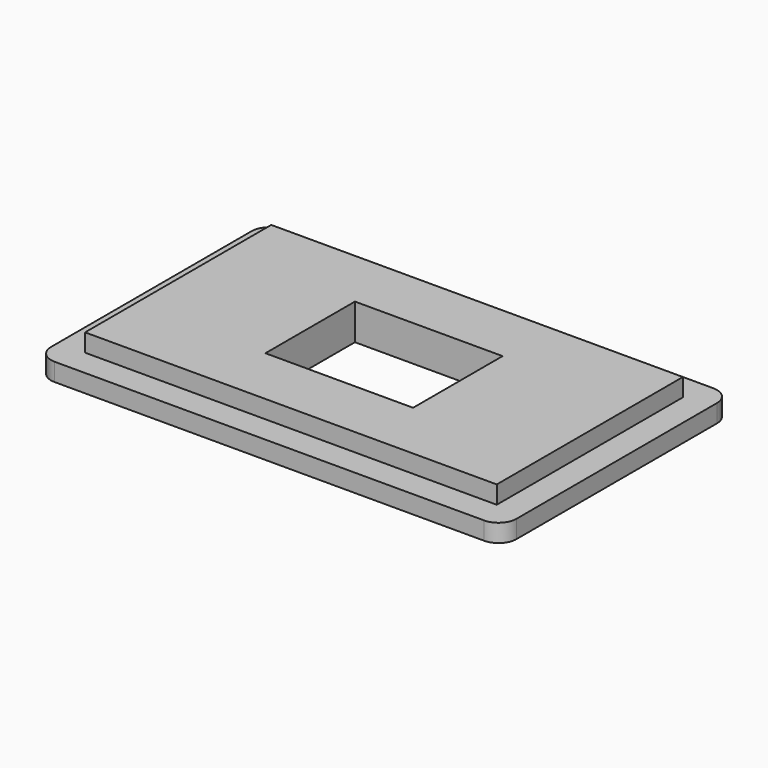
from build123d import *

# Parameters (mm, degrees)
F0_W     = 46
F0_H     = 26
F0_W_2   = 16.5
F0_H_2   = 12.5
F1_DEPTH = 4
F2_DEPTH = 2


with BuildPart() as f1:
    # F0 (on Top) → F1 (new body)
    with BuildSketch(Plane.XY):
        Rectangle(F0_W, F0_H)
        Rectangle(F0_W_2, F0_H_2, mode=Mode.SUBTRACT)
    extrude(amount=F1_DEPTH)

    # F0 (on Top) → F2 (join)
    with BuildSketch(Plane.XY):
        with BuildLine():
            Line((24, 16), (-24, 16))
            ThreePointArc((-24, 16), (-25.414214, 15.414214), (-26, 14))
            Line((-26, 14), (-26, -14))
            ThreePointArc((-26, -14), (-25.414214, -15.414214), (-24, -16))
            Line((-24, -16), (24, -16))
            ThreePointArc((24, -16), (25.414214, -15.414214), (26, -14))
            Line((26, -14), (26, 14))
            ThreePointArc((26, 14), (25.414214, 15.414214), (24, 16))
        make_face()
        Rectangle(F0_W, F0_H, mode=Mode.SUBTRACT)
    extrude(amount=F2_DEPTH)


solid = f1.part
